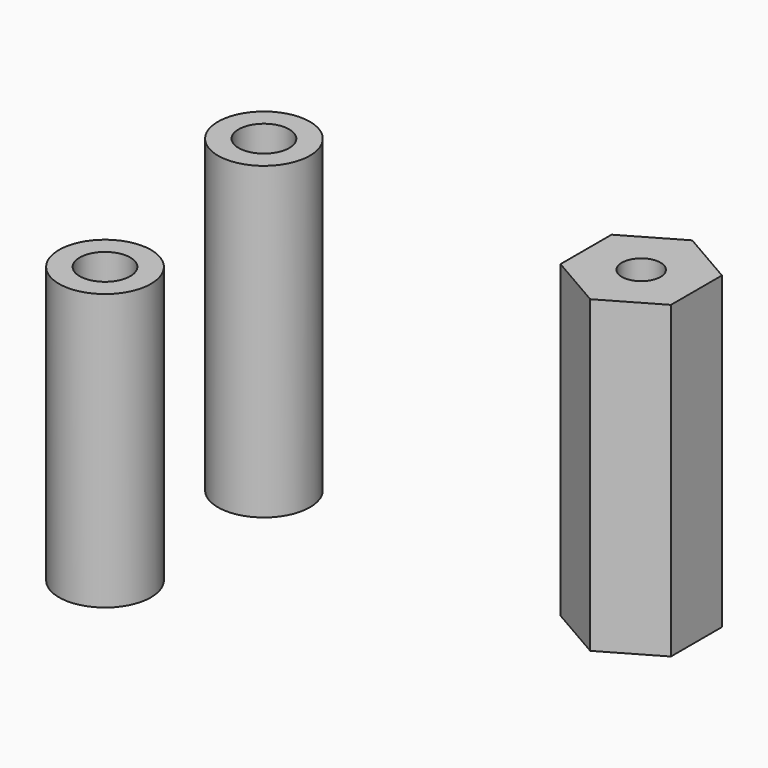
from build123d import *

# Parameters (mm, degrees)
F0_R     = 5
F0_R_2   = 2.75
F1_DEPTH = 33.65
F2_R     = 5
F2_R_2   = 2.75
F3_DEPTH = 30
F4_R     = 2.1
F5_DEPTH = 33.65


with BuildPart() as f1:
    # F0 (on Top) → F1 (new body)
    with BuildSketch(Plane.XY):
        with Locations((-20.293534, 15.126199)):
            Circle(F0_R)
        with Locations((-20.293534, 15.126199)):
            Circle(F0_R_2, mode=Mode.SUBTRACT)
    extrude(amount=F1_DEPTH)


with BuildPart() as f3:
    # F2 (on Top) → F3 (new body)
    with BuildSketch(Plane.XY):
        with Locations((-20.485578, -6.228754)):
            Circle(F2_R)
        with Locations((-20.485578, -6.228754)):
            Circle(F2_R_2, mode=Mode.SUBTRACT)
    extrude(amount=F3_DEPTH)


with BuildPart() as f5:
    # F4 (on Top) → F5 (new body)
    with BuildSketch(Plane.XY):
        Polygon((25.765936, 12.849451), (25.765936, 19.777654), (19.765936, 23.241756), (13.765936, 19.777654), (13.765936, 12.849451), (19.765936, 9.38535), align=None)
        with Locations((19.765936, 16.313553)):
            Circle(F4_R, mode=Mode.SUBTRACT)
    extrude(amount=F5_DEPTH)


solid = Compound([f1.part, f3.part, f5.part])
